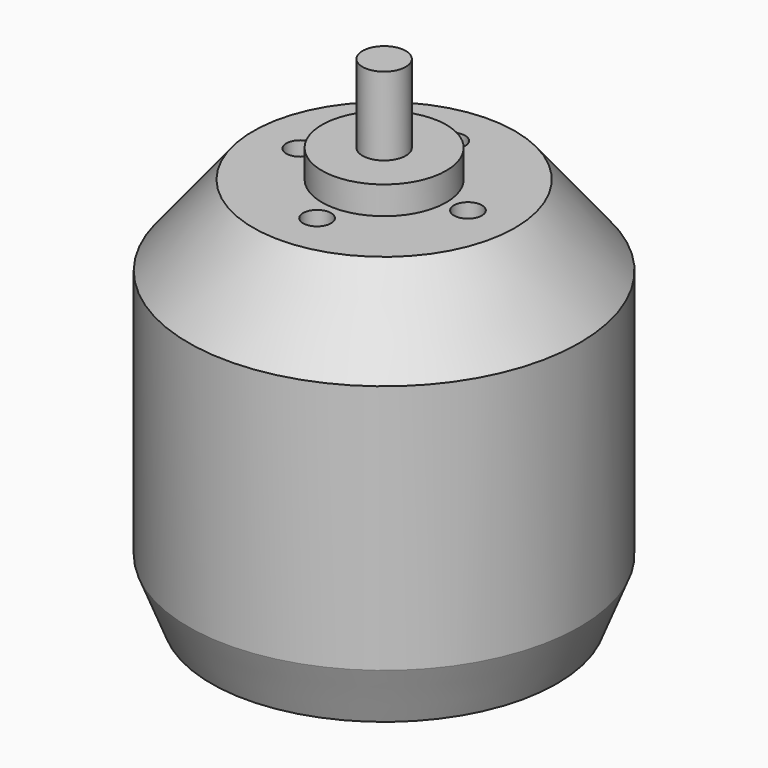
from build123d import *

# Parameters (mm, degrees)
F0_R      = 14
F1_DEPTH  = 27.75
F5_R      = 4.45
F6_DEPTH  = 2
F7_R      = 1.55
F8_DEPTH  = 5.6
F9_R      = 4.5
F12_DEPTH = 4.7
F13_R     = 1.5
F14_DEPTH = 4.2
F15_R     = 1
F16_DEPTH = 5.5


with BuildPart() as f1:
    # F0 (on Top) → F1 (new body)
    with BuildSketch(Plane.XY):
        Circle(F0_R)
    extrude(amount=F1_DEPTH)

    # F3 (on Front) → F4 (revolve, cut)
    with BuildSketch(Plane.XZ):
        Polygon((14, 27.75), (9.375, 27.75), (14, 22), align=None)
    revolve(axis=Axis((0, 0, 13.875), (0, 0, -1)), mode=Mode.SUBTRACT)

    # F5 (on face) → F6 (join)
    with BuildSketch(Plane.XY.offset(27.75)):
        Circle(F5_R)
    extrude(amount=F6_DEPTH)

    # F7 (on face) → F8 (join)
    with BuildSketch(Plane.XY.offset(29.75)):
        Circle(F7_R)
    extrude(amount=F8_DEPTH)

    # F10 (on Front) → F11 (revolve, cut)
    with BuildSketch(Plane.XZ):
        Polygon((14, 0), (14, 4.1), (12.375, 0), align=None)
    revolve(axis=Axis((0, 0, 13.875), (0, 0, -1)), mode=Mode.SUBTRACT)

    # F9 (on face) → F12 (cut)
    with BuildSketch(Plane(origin=(0, 0, 0), x_dir=(1, 0, 0), z_dir=(0, 0, -1))):
        Circle(F9_R)
    extrude(amount=-F12_DEPTH, mode=Mode.SUBTRACT)

    # F13 (on face) → F14 (cut)
    with BuildSketch(Plane(origin=(0, 0, 0), x_dir=(1, 0, 0), z_dir=(0, 0, -1))):
        with Locations((-5.656854, 5.656854)):
            Circle(F13_R)
        with Locations((6.717514, 6.717514)):
            Circle(F13_R)
        with Locations((5.656854, -5.656854)):
            Circle(F13_R)
        with Locations((-6.717514, -6.717514)):
            Circle(F13_R)
    extrude(amount=-F14_DEPTH, mode=Mode.SUBTRACT)

    # F15 (on face) → F16 (cut)
    with BuildSketch(Plane.XY.offset(27.75)):
        with Locations((0, -6)):
            Circle(F15_R)
        with Locations((6, 0)):
            Circle(F15_R)
        with Locations((0, 6)):
            Circle(F15_R)
        with Locations((-6, 0)):
            Circle(F15_R)
    extrude(amount=-F16_DEPTH, mode=Mode.SUBTRACT)


solid = f1.part
